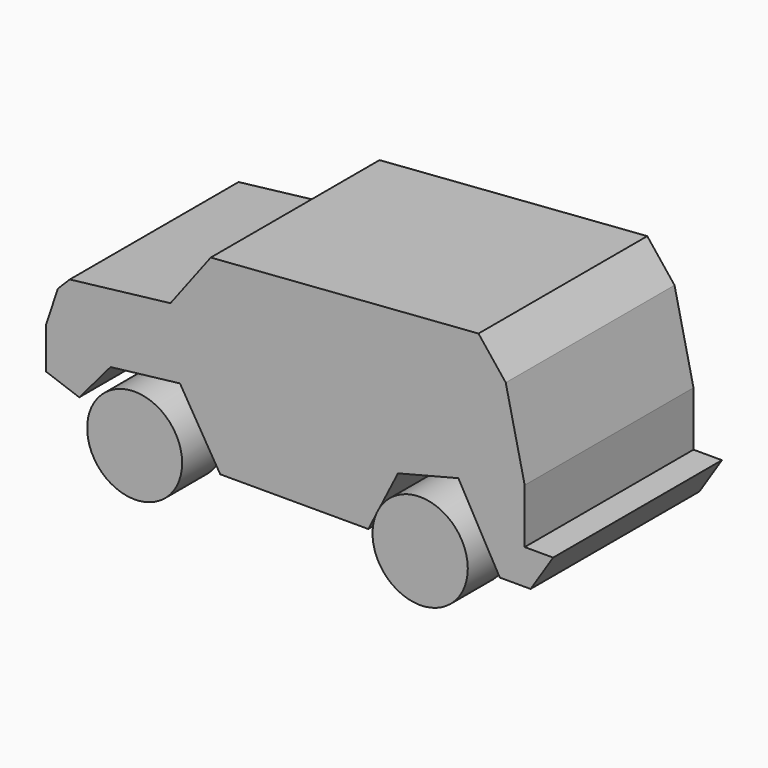
from build123d import *

# Parameters (mm, degrees)
F1_DEPTH = 50.8
F2_R     = 11.4318892662
F3_DEPTH = 12.7
F2_R_2   = 11.4709642316


with BuildPart() as f1:
    # F0 (on Front) → F1 (new body)
    with BuildSketch(Plane.XZ):
        Polygon((-56.1924055219, 18.1127805263), (-56.1924055219, 8.1293582916), (-48.2056699693, 5.2769519389), (-40.6755116304, 14.1495909966), (-23.9602141082, 16.1160975695), (-14.2620326951, 0), (21.3930476457, 0), (28.5240616649, 14.11941275), (43.0713370442, 17.8275406361), (53.0547574162, 0), (60.4710206389, 0), (65.8905878663, 8.4145991132), (59.0448155999, 8.4145991132), (59.0448155999, 21.5356685221), (54.4809624553, 41.7877547443), (47.9204282165, 50.059735775), (-16.5439564735, 45.2106446028), (-26.2421388179, 32.3748141527), (-50.4875965416, 29.5224059373), (-53.3399991691, 26.6700014472), align=None)
    extrude(amount=F1_DEPTH)


with BuildPart() as f3:
    # F2 (on Front) → F3 (new body)
    with BuildSketch(Plane.XZ):
        with Locations((-32.8026749194, 0)):
            Circle(F2_R)
    extrude(amount=F3_DEPTH)


with BuildPart() as f3b:
    # F2 (on Front) → F3, piece 2 (new body)
    with BuildSketch(Plane.XZ):
        with Locations((35.940323025, 0)):
            Circle(F2_R_2)
    extrude(amount=F3_DEPTH)


with BuildPart() as f3c:
    # F2 (on Front) → F3, piece 3 (new body)
    with BuildSketch(Plane.XZ):
        with Locations((-51.7711788416, -37.5091433525)):
            Circle(F2_R)
    extrude(amount=F3_DEPTH)


with BuildPart() as f3d:
    # F2 (on Front) → F3, piece 4 (new body)
    with BuildSketch(Plane.XZ):
        with Locations((16.9718191028, -37.5091433525)):
            Circle(F2_R_2)
    extrude(amount=F3_DEPTH)


with BuildPart() as f3c_1:
    # F4: moved
    add(f3c.part.moved(Location((18.82588, -40.50417, 38.50749))))


with BuildPart() as f3d_1:
    # F4: moved
    add(f3d.part.moved(Location((18.82588, -40.50417, 38.50749))))


with BuildPart() as f3b_1:
    # F5: moved
    add(f3b.part.moved(Location((0, 2.56717, 1.14096))))


with BuildPart() as f3_1:
    # F5: moved
    add(f3.part.moved(Location((0, 2.56717, 1.14096))))


solid = Compound([f1.part, f3c_1.part, f3d_1.part, f3b_1.part, f3_1.part])
